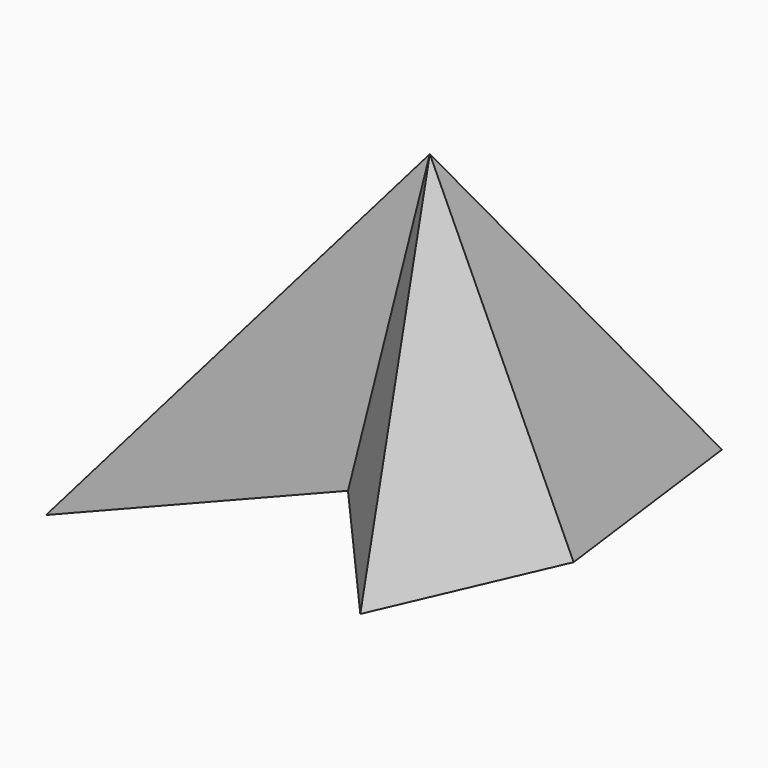
from build123d import *


with BuildPart() as f3:
    # F0 (on Top) → F3 section 0
    with BuildSketch(Plane.XY, mode=Mode.PRIVATE) as f3_s0:
        Polygon((-12.159458, 44.065941), (-67.421995, 69.493487), (-88.781133, -76.291107), (-26.907975, -6.303441), (26.829444, -67.476228), (56.257053, -0.156349), (45.137279, 86.106151), (0, 15.587089), align=None)
    loft([Vertex(0, 0, 121.92), f3_s0.sketch])


solid = f3.part
